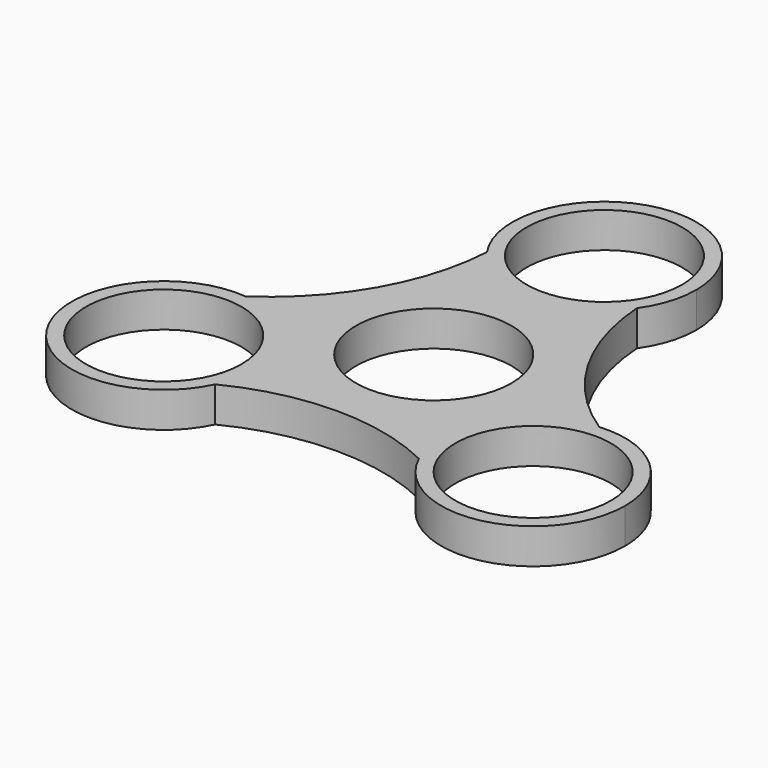
from build123d import *

# Parameters (mm, degrees)
F0_R     = 11
F1_DEPTH = 5


with BuildPart() as f1:
    # F0 (on Top) → F1 (new body)
    with BuildSketch(Plane.XY):
        with BuildLine():
            ThreePointArc((-13.124451, -15.082959), (-16.514327, -6.328217), (-24.916067, -2.139242))
            ThreePointArc((-24.916067, -2.139242), (-37.427089, -21.505605), (-14.386187, -20.669831))
            ThreePointArc((-14.386187, -20.669831), (-13.443808, -17.946747), (-13.124451, -15.082959))
        make_face()
        with Locations((-26.124451, -15.082959)):
            Circle(F0_R, mode=Mode.SUBTRACT)
        with BuildLine():
            ThreePointArc((39.124451, -15.082959), (34.944886, -5.533093), (25.093693, -2.123888))
            ThreePointArc((25.093693, -2.123888), (14.910958, -8.505911), (14.310672, -20.508326))
            ThreePointArc((14.310672, -20.508326), (28.901218, -27.782942), (39.124451, -15.082959))
        make_face()
        with Locations((26.124451, -15.082959)):
            Circle(F0_R, mode=Mode.SUBTRACT)
        with BuildLine():
            ThreePointArc((10.605395, 22.647568), (12.386891, 26.220677), (13, 30.165918))
            ThreePointArc((13, 30.165918), (-3.860209, 42.579571), (-10.707506, 22.793719))
            ThreePointArc((-10.707506, 22.793719), (-0.089144, 17.166224), (10.605395, 22.647568))
        make_face()
        with Locations((0, 30.165918)):
            Circle(F0_R, mode=Mode.SUBTRACT)
        with BuildLine():
            ThreePointArc((10.605395, 22.647568), (-0.089144, 17.166224), (-10.707506, 22.793719))
            ThreePointArc((-10.707506, 22.793719), (-14.883109, 8.658271), (-24.916067, -2.139242))
            ThreePointArc((-24.916067, -2.139242), (-16.514327, -6.328217), (-13.124451, -15.082959))
            ThreePointArc((-13.124451, -15.082959), (-13.443808, -17.946747), (-14.386187, -20.669831))
            ThreePointArc((-14.386187, -20.669831), (-0.056728, -17.218286), (14.310672, -20.508326))
            ThreePointArc((14.310672, -20.508326), (14.910958, -8.505911), (25.093693, -2.123888))
            ThreePointArc((25.093693, -2.123888), (14.939837, 8.560015), (10.605395, 22.647568))
        make_face()
        Circle(F0_R, mode=Mode.SUBTRACT)
    extrude(amount=F1_DEPTH)


solid = f1.part
